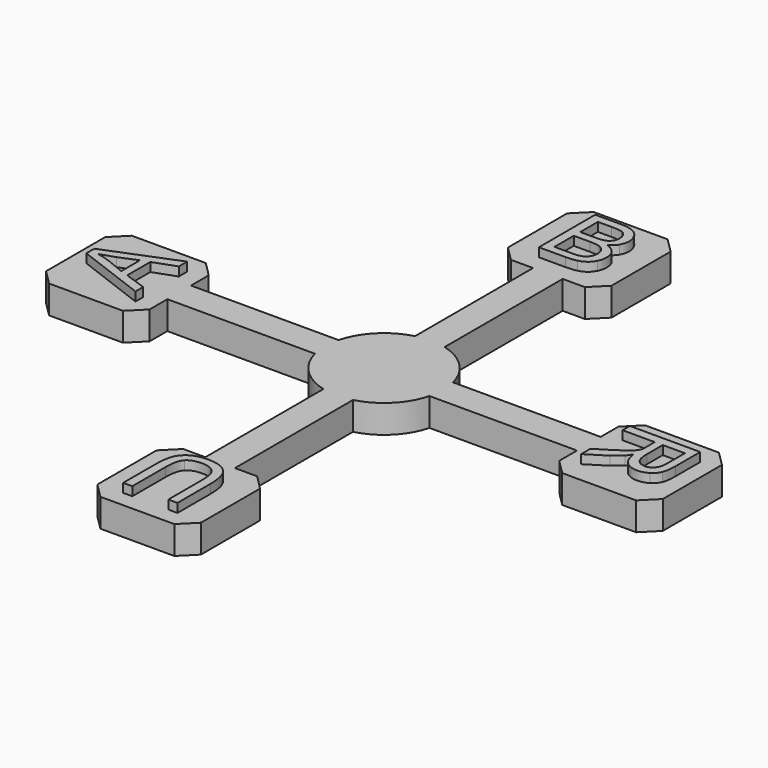
from build123d import *

# Parameters (mm, degrees)
PAD_DEPTH    = 1.9
PAD001_DEPTH = 0.6
PAD002_DEPTH = 0.6
PAD003_DEPTH = 0.6
PAD004_DEPTH = 0.6
CHAMFER_SIZE = 1


with BuildPart() as part:
    # Sketch → Pad (new body)
    with BuildSketch(Plane.XY):
        with BuildLine():
            Line((-1, 13.852983), (-1, 3.872983))
            ThreePointArc((-1, 3.872983), (-2.828427, 2.828427), (-3.872983, 1))
            Line((-13.852983, 1), (-3.872983, 1))
            Line((-13.852983, 1), (-13.852983, 3.5))
            Line((-13.852983, 3.5), (-20.852983, 3.5))
            Line((-20.852983, 3.5), (-20.852983, -3.5))
            Line((-20.852983, -3.5), (-13.852983, -3.5))
            Line((-13.852983, -3.5), (-13.852983, -1))
            Line((-13.852983, -1), (-3.872983, -1))
            ThreePointArc((-3.872983, -1), (-2.828427, -2.828427), (-1, -3.872983))
            Line((-1, -13.852983), (-1, -3.872983))
            Line((-1, -13.852983), (-3.5, -13.852983))
            Line((-3.5, -13.852983), (-3.5, -20.852983))
            Line((-3.5, -20.852983), (3.5, -20.852983))
            Line((3.5, -20.852983), (3.5, -13.852983))
            Line((3.5, -13.852983), (1, -13.852983))
            Line((1, -13.852983), (1, -3.872983))
            ThreePointArc((1, -3.872983), (2.828427, -2.828427), (3.872983, -1))
            Line((13.852983, -1), (3.872983, -1))
            Line((13.852983, -3.5), (13.852983, -1))
            Line((20.852983, -3.5), (13.852983, -3.5))
            Line((20.852983, 3.5), (20.852983, -3.5))
            Line((13.852983, 3.5), (20.852983, 3.5))
            Line((13.852983, 1), (13.852983, 3.5))
            Line((13.852983, 1), (3.872983, 1))
            ThreePointArc((3.872983, 1), (2.828427, 2.828427), (1, 3.872983))
            Line((1, 3.872983), (1, 13.852983))
            Line((3.5, 13.852983), (1, 13.852983))
            Line((3.5, 13.852983), (3.5, 20.852983))
            Line((-3.5, 20.852983), (3.5, 20.852983))
            Line((-3.5, 20.852983), (-3.5, 13.852983))
            Line((-3.5, 13.852983), (-1, 13.852983))
        make_face()
    extrude(amount=PAD_DEPTH)

    # Sketch006 (on DatumPlane) → Pad001 (join)
    with BuildSketch(Plane.XY.offset(1.9)):
        with BuildLine():
            Line((-1.522293, 15), (-1.522293, 19.755839))
            Line((-1.522293, 19.755839), (0.229299, 19.755839))
            add(Edge.make_bspline(
                [(0.229299, 19.755839), (0.764331, 19.755839), (1.087049, 19.605096)],
                knots=[0, 0, 0, 1, 1, 1], degree=2))
            add(Edge.make_bspline(
                [(1.087049, 19.605096), (1.41189, 19.456476), (1.59448, 19.144374)],
                knots=[0, 0, 0, 1, 1, 1], degree=2))
            add(Edge.make_bspline(
                [(1.59448, 19.144374), (1.77707, 18.832272), (1.77707, 18.492569)],
                knots=[0, 0, 0, 1, 1, 1], degree=2))
            add(Edge.make_bspline(
                [(1.77707, 18.492569), (1.77707, 18.176221), (1.613588, 17.895966)],
                knots=[0, 0, 0, 1, 1, 1], degree=2))
            add(Edge.make_bspline(
                [(1.613588, 17.895966), (1.452229, 17.617834), (1.125265, 17.44586)],
                knots=[0, 0, 0, 1, 1, 1], degree=2))
            add(Edge.make_bspline(
                [(1.125265, 17.44586), (1.549894, 17.322718), (1.77707, 17.027601)],
                knots=[0, 0, 0, 1, 1, 1], degree=2))
            add(Edge.make_bspline(
                [(1.77707, 17.027601), (2.004246, 16.734607), (2.004246, 16.333333)],
                knots=[0, 0, 0, 1, 1, 1], degree=2))
            add(Edge.make_bspline(
                [(2.004246, 16.333333), (2.004246, 16.010616), (1.864119, 15.732484)],
                knots=[0, 0, 0, 1, 1, 1], degree=2))
            add(Edge.make_bspline(
                [(1.864119, 15.732484), (1.726115, 15.454352), (1.522293, 15.303609)],
                knots=[0, 0, 0, 1, 1, 1], degree=2))
            add(Edge.make_bspline(
                [(1.522293, 15.303609), (1.318471, 15.152866), (1.010616, 15.076433)],
                knots=[0, 0, 0, 1, 1, 1], degree=2))
            add(Edge.make_bspline(
                [(1.010616, 15.076433), (0.704883, 15), (0.259023, 15)],
                knots=[0, 0, 0, 1, 1, 1], degree=2))
            Line((0.259023, 15), (-1.522293, 15))
        make_face()
        with BuildLine():
            Line((-0.904459, 15.543524), (0.259023, 15.543524))
            add(Edge.make_bspline(
                [(0.259023, 15.543524), (0.558386, 15.543524), (0.679406, 15.566879)],
                knots=[0, 0, 0, 1, 1, 1], degree=2))
            add(Edge.make_bspline(
                [(0.679406, 15.566879), (0.89172, 15.605096), (1.03397, 15.694268)],
                knots=[0, 0, 0, 1, 1, 1], degree=2))
            add(Edge.make_bspline(
                [(1.03397, 15.694268), (1.178344, 15.785563), (1.269639, 15.957537)],
                knots=[0, 0, 0, 1, 1, 1], degree=2))
            add(Edge.make_bspline(
                [(1.269639, 15.957537), (1.363057, 16.131635), (1.363057, 16.358811)],
                knots=[0, 0, 0, 1, 1, 1], degree=2))
            add(Edge.make_bspline(
                [(1.363057, 16.358811), (1.363057, 16.624204), (1.229299, 16.819533)],
                knots=[0, 0, 0, 1, 1, 1], degree=2))
            add(Edge.make_bspline(
                [(1.229299, 16.819533), (1.095541, 17.014862), (0.857749, 17.093418)],
                knots=[0, 0, 0, 1, 1, 1], degree=2))
            add(Edge.make_bspline(
                [(0.857749, 17.093418), (0.622081, 17.174098), (0.176221, 17.174098)],
                knots=[0, 0, 0, 1, 1, 1], degree=2))
            Line((0.176221, 17.174098), (-0.904459, 17.174098))
            Line((-0.904459, 17.174098), (-0.904459, 15.543524))
        make_face(mode=Mode.SUBTRACT)
        with BuildLine():
            Line((-0.904459, 17.717622), (0.106157, 17.717622))
            add(Edge.make_bspline(
                [(0.106157, 17.717622), (0.515924, 17.717622), (0.694268, 17.774947)],
                knots=[0, 0, 0, 1, 1, 1], degree=2))
            add(Edge.make_bspline(
                [(0.694268, 17.774947), (0.929936, 17.849257), (1.048832, 18.021231)],
                knots=[0, 0, 0, 1, 1, 1], degree=2))
            add(Edge.make_bspline(
                [(1.048832, 18.021231), (1.169851, 18.193206), (1.169851, 18.452229)],
                knots=[0, 0, 0, 1, 1, 1], degree=2))
            add(Edge.make_bspline(
                [(1.169851, 18.452229), (1.169851, 18.698514), (1.057325, 18.88535)],
                knots=[0, 0, 0, 1, 1, 1], degree=2))
            add(Edge.make_bspline(
                [(1.057325, 18.88535), (0.946921, 19.07431), (0.738854, 19.142251)],
                knots=[0, 0, 0, 1, 1, 1], degree=2))
            add(Edge.make_bspline(
                [(0.738854, 19.142251), (0.532909, 19.212314), (0.029724, 19.212314)],
                knots=[0, 0, 0, 1, 1, 1], degree=2))
            Line((0.029724, 19.212314), (-0.904459, 19.212314))
            Line((-0.904459, 19.212314), (-0.904459, 17.717622))
        make_face(mode=Mode.SUBTRACT)
    extrude(amount=PAD001_DEPTH)

    # Sketch007 (on DatumPlane) → Pad002 (join)
    with BuildSketch(Plane.XY.offset(1.9)):
        Polygon((-15, -2.260616), (-19.755839, -0.466561), (-19.755839, 0.200106), (-15, 2.110934), (-15, 1.406051), (-16.494692, 0.862527), (-16.494692, -1.090764), (-15, -1.602442), align=None)
        with BuildLine():
            Line((-17.038217, -0.91242), (-17.038217, 0.671444))
            Line((-17.038217, 0.671444), (-18.22293, 0.183121))
            add(Edge.make_bspline(
                [(-18.22293, 0.183121), (-18.815287, -0.039809), (-19.212314, -0.148089)],
                knots=[0, 0, 0, 1, 1, 1], degree=2))
            add(Edge.make_bspline(
                [(-19.212314, -0.148089), (-18.753715, -0.237261), (-18.307856, -0.39862)],
                knots=[0, 0, 0, 1, 1, 1], degree=2))
            Line((-18.307856, -0.39862), (-17.038217, -0.91242))
        make_face(mode=Mode.SUBTRACT)
    extrude(amount=PAD002_DEPTH)

    # Sketch008 (on DatumPlane) → Pad003 (join)
    with BuildSketch(Plane.XY.offset(1.9)):
        with BuildLine():
            Line((-1.216879, -19.755839), (-1.834713, -19.755839))
            Line((-1.834713, -19.755839), (-1.834713, -16.976645))
            add(Edge.make_bspline(
                [(-1.834713, -16.976645), (-1.834713, -16.252654), (-1.675478, -15.825902)],
                knots=[0, 0, 0, 1, 1, 1], degree=2))
            add(Edge.make_bspline(
                [(-1.675478, -15.825902), (-1.516242, -15.399151), (-1.100106, -15.131635)],
                knots=[0, 0, 0, 1, 1, 1], degree=2))
            add(Edge.make_bspline(
                [(-1.100106, -15.131635), (-0.686093, -14.864119), (-0.010934, -14.864119)],
                knots=[0, 0, 0, 1, 1, 1], degree=2))
            add(Edge.make_bspline(
                [(-0.010934, -14.864119), (0.645117, -14.864119), (1.063376, -15.095541)],
                knots=[0, 0, 0, 1, 1, 1], degree=2))
            add(Edge.make_bspline(
                [(1.063376, -15.095541), (1.479512, -15.329087), (1.657856, -15.770701)],
                knots=[0, 0, 0, 1, 1, 1], degree=2))
            add(Edge.make_bspline(
                [(1.657856, -15.770701), (1.8362, -16.212314), (1.8362, -16.976645)],
                knots=[0, 0, 0, 1, 1, 1], degree=2))
            Line((1.8362, -16.976645), (1.8362, -19.755839))
            Line((1.8362, -19.755839), (1.218365, -19.755839))
            Line((1.218365, -19.755839), (1.218365, -16.95966))
            add(Edge.make_bspline(
                [(1.218365, -16.95966), (1.218365, -16.329087), (1.105839, -16.029724)],
                knots=[0, 0, 0, 1, 1, 1], degree=2))
            add(Edge.make_bspline(
                [(1.105839, -16.029724), (0.993312, -15.732484), (0.717304, -15.569002)],
                knots=[0, 0, 0, 1, 1, 1], degree=2))
            add(Edge.make_bspline(
                [(0.717304, -15.569002), (0.441295, -15.407643), (0.044268, -15.407643)],
                knots=[0, 0, 0, 1, 1, 1], degree=2))
            add(Edge.make_bspline(
                [(0.044268, -15.407643), (-0.637261, -15.407643), (-0.926008, -15.728238)],
                knots=[0, 0, 0, 1, 1, 1], degree=2))
            add(Edge.make_bspline(
                [(-0.926008, -15.728238), (-1.216879, -16.048832), (-1.216879, -16.95966)],
                knots=[0, 0, 0, 1, 1, 1], degree=2))
            Line((-1.216879, -16.95966), (-1.216879, -19.755839))
        make_face()
    extrude(amount=PAD003_DEPTH)

    # Sketch009 (on DatumPlane) → Pad004 (join)
    with BuildSketch(Plane.XY.offset(1.9)):
        with BuildLine():
            Line((15, 2.0362), (19.755839, 2.0362))
            Line((19.755839, 2.0362), (19.755839, -0.033864))
            add(Edge.make_bspline(
                [(19.755839, -0.033864), (19.755839, -0.658068), (19.62845, -0.982909)],
                knots=[0, 0, 0, 1, 1, 1], degree=2))
            add(Edge.make_bspline(
                [(19.62845, -0.982909), (19.501062, -1.307749), (19.176221, -1.500955)],
                knots=[0, 0, 0, 1, 1, 1], degree=2))
            add(Edge.make_bspline(
                [(19.176221, -1.500955), (18.853503, -1.696285), (18.462845, -1.696285)],
                knots=[0, 0, 0, 1, 1, 1], degree=2))
            add(Edge.make_bspline(
                [(18.462845, -1.696285), (17.95966, -1.696285), (17.613588, -1.373567)],
                knots=[0, 0, 0, 1, 1, 1], degree=2))
            add(Edge.make_bspline(
                [(17.613588, -1.373567), (17.267516, -1.052972), (17.174098, -0.379936)],
                knots=[0, 0, 0, 1, 1, 1], degree=2))
            add(Edge.make_bspline(
                [(17.174098, -0.379936), (17.036093, -0.626221), (16.902335, -0.753609)],
                knots=[0, 0, 0, 1, 1, 1], degree=2))
            add(Edge.make_bspline(
                [(16.902335, -0.753609), (16.611465, -1.023248), (16.301486, -1.265287)],
                knots=[0, 0, 0, 1, 1, 1], degree=2))
            Line((16.301486, -1.265287), (15, -2.07845))
            Line((15, -2.07845), (15, -1.30138))
            Line((15, -1.30138), (15.993631, -0.683546))
            add(Edge.make_bspline(
                [(15.993631, -0.683546), (16.424628, -0.411783), (16.651805, -0.235563)],
                knots=[0, 0, 0, 1, 1, 1], degree=2))
            add(Edge.make_bspline(
                [(16.651805, -0.235563), (16.881104, -0.061465), (16.991507, 0.076539)],
                knots=[0, 0, 0, 1, 1, 1], degree=2))
            add(Edge.make_bspline(
                [(16.991507, 0.076539), (17.101911, 0.214544), (17.146497, 0.358917)],
                knots=[0, 0, 0, 1, 1, 1], degree=2))
            add(Edge.make_bspline(
                [(17.146497, 0.358917), (17.174098, 0.462951), (17.174098, 0.702866)],
                knots=[0, 0, 0, 1, 1, 1], degree=2))
            Line((17.174098, 0.702866), (17.174098, 1.418365))
            Line((17.174098, 1.418365), (15, 1.418365))
            Line((15, 1.418365), (15, 2.0362))
        make_face()
        with BuildLine():
            Line((17.717622, 1.418365), (17.717622, 0.091401))
            add(Edge.make_bspline(
                [(17.717622, 0.091401), (17.717622, -0.333227), (17.802548, -0.571019)],
                knots=[0, 0, 0, 1, 1, 1], degree=2))
            add(Edge.make_bspline(
                [(17.802548, -0.571019), (17.887473, -0.810934), (18.072187, -0.934076)],
                knots=[0, 0, 0, 1, 1, 1], degree=2))
            add(Edge.make_bspline(
                [(18.072187, -0.934076), (18.259023, -1.059342), (18.47983, -1.059342)],
                knots=[0, 0, 0, 1, 1, 1], degree=2))
            add(Edge.make_bspline(
                [(18.47983, -1.059342), (18.798301, -1.059342), (19.004246, -0.819427)],
                knots=[0, 0, 0, 1, 1, 1], degree=2))
            add(Edge.make_bspline(
                [(19.004246, -0.819427), (19.212314, -0.579512), (19.212314, -0.059342)],
                knots=[0, 0, 0, 1, 1, 1], degree=2))
            Line((19.212314, -0.059342), (19.212314, 1.418365))
            Line((19.212314, 1.418365), (17.717622, 1.418365))
        make_face(mode=Mode.SUBTRACT)
    extrude(amount=PAD004_DEPTH)

    # Chamfer
    chamfer_edges = [part.edges().sort_by_distance(p)[0] for p in [
        (3.5, -20.852983, 0.95),
        (-3.5, -20.852983, 0.95),
        (20.852983, -3.5, 0.95),
        (20.852983, 3.5, 0.95),
        (13.852983, -3.5, 0.95),
        (3.5, -13.852983, 0.95),
        (3.5, 13.852983, 0.95),
        (3.5, 20.852983, 0.95),
        (-13.852983, -3.5, 0.95),
        (-20.852983, -3.5, 0.95),
        (-13.852983, 3.5, 0.95),
        (-3.5, 13.852983, 0.95),
        (-3.5, -13.852983, 0.95),
        (-20.852983, 3.5, 0.95),
        (-3.5, 20.852983, 0.95),
        (13.852983, 3.5, 0.95),
    ]]
    chamfer(chamfer_edges, length=CHAMFER_SIZE)


solid = part.part
